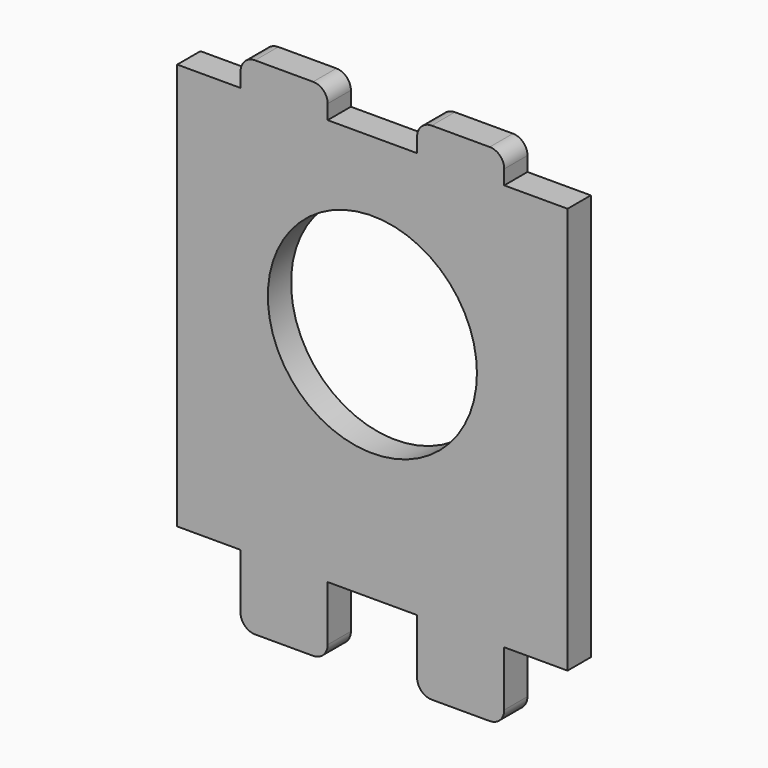
from build123d import *

# Parameters (mm, degrees)
F1_DEPTH = 2.5


with BuildPart() as f1:
    # F0 (on Front) → F1 (new body)
    with BuildSketch(Plane.XZ):
        with BuildLine():
            Line((-11.35, 17.5), (-16.8, 17.5))
            Line((-16.8, 17.5), (-16.8, 2.5))
            Line((-16.8, 2.5), (-9, 2.5))
            ThreePointArc((-9, 2.5), (0, 11.5), (9, 2.5))
            Line((9, 2.5), (16.8, 2.5))
            Line((16.8, 2.5), (16.8, 17.5))
            Line((16.8, 17.5), (11.35, 17.5))
            Line((11.35, 17.5), (11.35, 18.75))
            ThreePointArc((11.35, 18.75), (10.983883, 19.633883), (10.1, 20))
            Line((10.1, 20), (5.1, 20))
            ThreePointArc((5.1, 20), (4.216117, 19.633883), (3.85, 18.75))
            Line((3.85, 18.75), (3.85, 17.5))
            Line((3.85, 17.5), (-3.85, 17.5))
            Line((-3.85, 17.5), (-3.85, 18.75))
            ThreePointArc((-3.85, 18.75), (-4.216117, 19.633883), (-5.1, 20))
            Line((-5.1, 20), (-10.1, 20))
            ThreePointArc((-10.1, 20), (-10.983883, 19.633883), (-11.35, 18.75))
            Line((-11.35, 18.75), (-11.35, 17.5))
        make_face()
        with BuildLine():
            Line((-9, 2.5), (-16.8, 2.5))
            Line((-16.8, 2.5), (-16.8, -17.5))
            Line((-16.8, -17.5), (-11.35, -17.5))
            Line((-11.35, -17.5), (-11.35, -22.25))
            ThreePointArc((-11.35, -22.25), (-10.983883, -23.133883), (-10.1, -23.5))
            Line((-10.1, -23.5), (-5.1, -23.5))
            ThreePointArc((-5.1, -23.5), (-4.216117, -23.133883), (-3.85, -22.25))
            Line((-3.85, -22.25), (-3.85, -17.5))
            Line((-3.85, -17.5), (3.85, -17.5))
            Line((3.85, -17.5), (3.85, -22.25))
            ThreePointArc((3.85, -22.25), (4.216117, -23.133883), (5.1, -23.5))
            Line((5.1, -23.5), (10.1, -23.5))
            ThreePointArc((10.1, -23.5), (10.983883, -23.133883), (11.35, -22.25))
            Line((11.35, -22.25), (11.35, -17.5))
            Line((11.35, -17.5), (16.8, -17.5))
            Line((16.8, -17.5), (16.8, 2.5))
            Line((16.8, 2.5), (9, 2.5))
            ThreePointArc((9, 2.5), (0, -6.5), (-9, 2.5))
        make_face()
    extrude(amount=F1_DEPTH)


solid = f1.part
